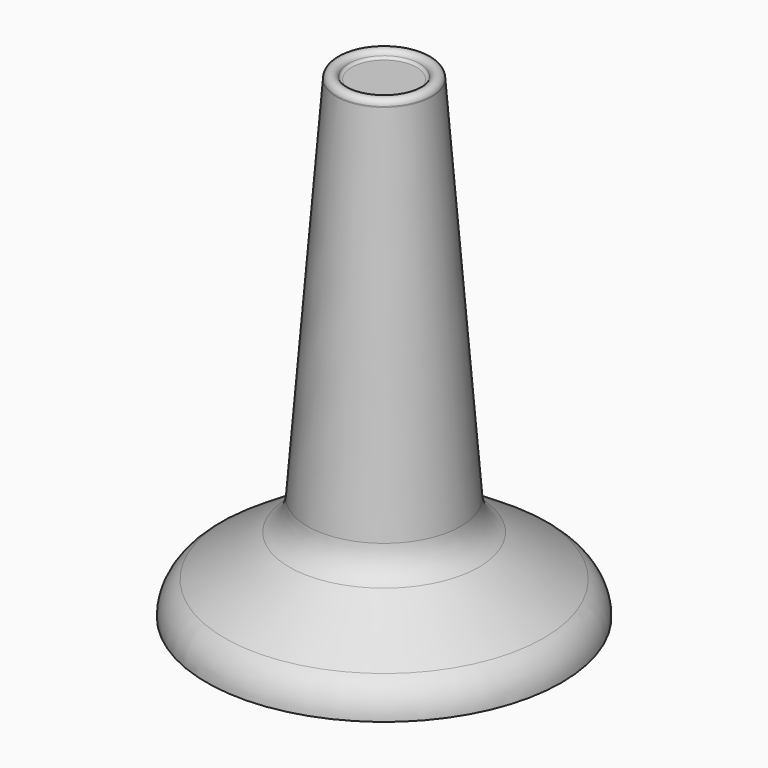
from build123d import *


with BuildPart() as f1:
    # F0 (on Front) → F1 (revolve)
    with BuildSketch(Plane.XZ):
        with BuildLine():
            Line((0, 38.1), (0, 0))
            Line((0, 0), (14.2875, 0))
            ThreePointArc((14.2875, 0), (13.899108, 1.521657), (12.828956, 2.671031))
            Line((12.828956, 2.671031), (7.631716, 6.010877))
            ThreePointArc((7.631716, 6.010877), (6.623452, 7.052022), (6.182959, 8.4328))
            Line((6.182959, 8.4328), (3.8481, 38.1))
            ThreePointArc((3.8481, 38.1), (3.846534, 38.139857), (3.8481, 38.179714))
            ThreePointArc((3.8481, 38.179714), (3.39398, 38.645156), (2.854139, 38.282619))
            ThreePointArc((2.854139, 38.282619), (2.762666, 38.150718), (2.610375, 38.1))
            Line((2.610375, 38.1), (0, 38.1))
        make_face()
    revolve(axis=Axis((0, 0, 19.05), (0, 0, 1)))


solid = f1.part
